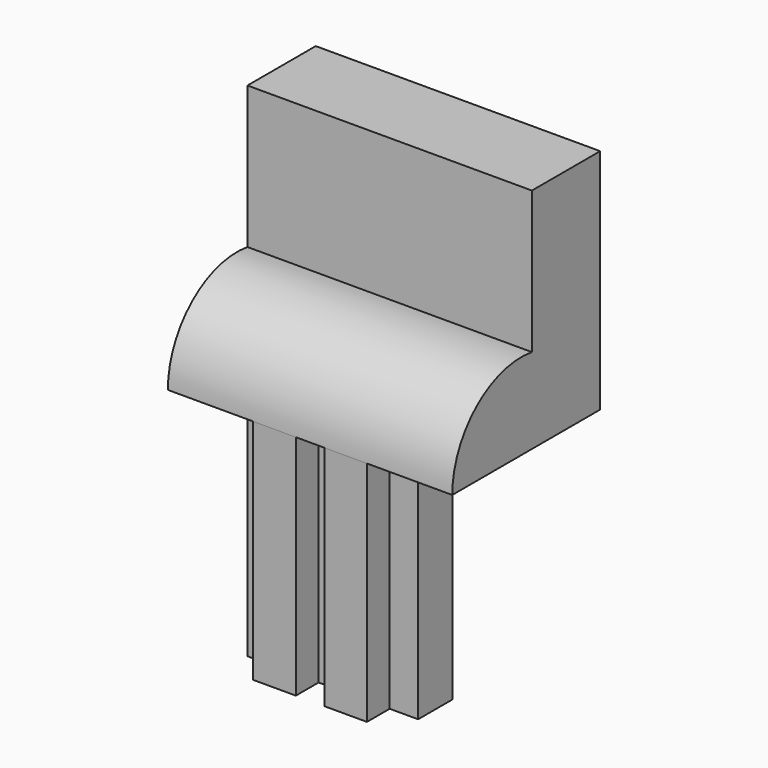
from build123d import *

# Parameters (mm, degrees)
F1_DEPTH = 10
F2_W     = 2
F2_H     = 8
F3_DEPTH = 6.501
F4_W     = 1
F4_H     = 1
F5_DEPTH = 8


with BuildPart() as f1:
    # F0 (on Right) → F1 (new body)
    with BuildSketch(Plane.YZ):
        with BuildLine():
            Line((-3.5, -8), (0, -8))
            Line((0, -8), (0, 0))
            Line((0, 0), (3, 0))
            Line((3, 0), (3, 8))
            Line((3, 8), (0, 8))
            Line((0, 8), (0, 3))
            ThreePointArc((0, 3), (-2.439902, 2.304886), (-3.5, 0))
            Line((-3.5, 0), (-3.5, -8))
        make_face()
    extrude(amount=F1_DEPTH)

    # F2 (on face) → F3 (cut, through all)
    with BuildSketch(Plane.XZ.offset(3.5)):
        with Locations((1, -4)):
            Rectangle(F2_W, F2_H)
        with Locations((9, -4)):
            Rectangle(F2_W, F2_H)
    extrude(amount=-F3_DEPTH, mode=Mode.SUBTRACT)

    # F4 (on face) → F5 (cut)
    with BuildSketch(Plane(origin=(0, 0, -8), x_dir=(1, 0, 0), z_dir=(0, 0, -1))):
        with Locations((2.5, 3)):
            Rectangle(F4_W, F4_H)
        with Locations((2.5, 0.5)):
            Rectangle(F4_W, F4_H)
        with Locations((7.5, 0.5)):
            Rectangle(F4_W, F4_H)
        with Locations((7.5, 3)):
            Rectangle(F4_W, F4_H)
        with Locations((5, 3)):
            Rectangle(F4_W, F4_H)
        with Locations((5, 0.5)):
            Rectangle(F4_W, F4_H)
    extrude(amount=-F5_DEPTH, mode=Mode.SUBTRACT)


solid = f1.part
